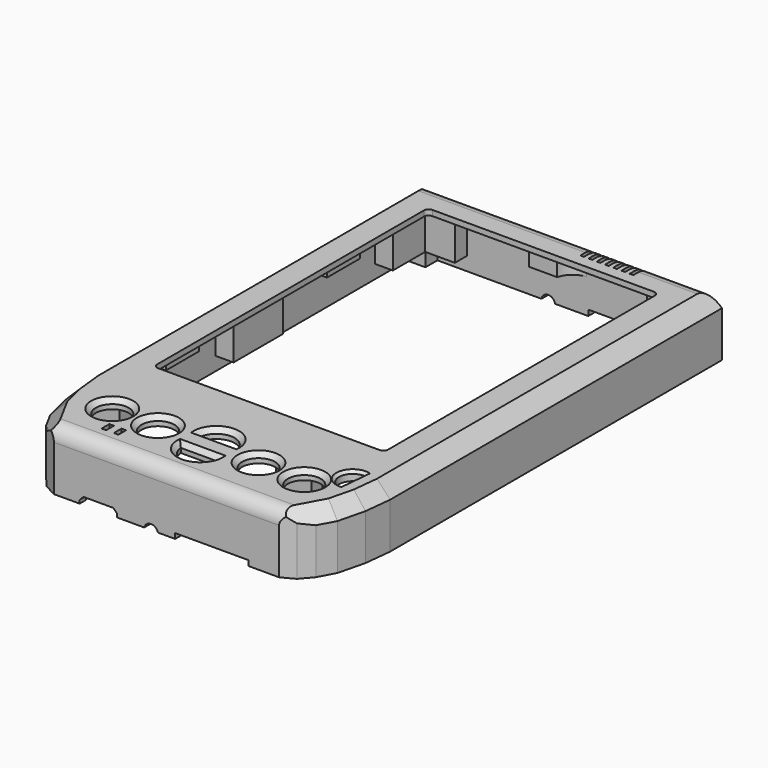
from build123d import *

# Parameters (mm, degrees)
PAD_DEPTH       = 13
SKETCH002_W     = 50.5
SKETCH002_H     = 75
POCKET_DEPTH    = 15
POCKET001_DEPTH = 11
SKETCH004_R     = 3.6
POCKET002_DEPTH = 5
SKETCH005_W     = 7.75
SKETCH005_H     = 3
SKETCH005_W_2   = 6.060126
SKETCH005_H_2   = 3.248485
SKETCH005_W_3   = 3.913111
SKETCH005_H_3   = 13.5
SKETCH005_W_4   = 3.95
SKETCH005_H_4   = 5.4
PAD001_DEPTH    = 8
CHAMFER_SIZE    = 1
CHAMFER001_SIZE = 0.6
POCKET008_DEPTH = 5
SKETCH034_R     = 1.56
SKETCH034_W     = 8.2
SKETCH034_H     = 3
SKETCH034_W_2   = 16
SKETCH034_H_2   = 2.61
POCKET013_DEPTH = 5
SKETCH035_W     = 12
SKETCH035_H     = 2.2
POCKET014_DEPTH = 5
SKETCH038_R     = 1.5
POCKET017_DEPTH = 5
SKETCH039_W     = 3.93
SKETCH039_H     = 3.28
PAD020_DEPTH    = 3
SKETCH040_R     = 0.9
POCKET018_DEPTH = 10
SKETCH045_R     = 0.6
POCKET023_DEPTH = 7
SKETCH047_W     = 3.7
SKETCH047_H     = 9
PAD022_DEPTH    = 2.2
SKETCH048_R     = 0.65
POCKET024_DEPTH = 3
SKETCH060_W     = 42.5
SKETCH060_H     = 2.92
POCKET029_DEPTH = 0.6
CHAMFER013_SIZE = 0.85
SKETCH091_R     = 3.3
POCKET041_DEPTH = 1.8
FILLET_R        = 0.6
FILLET013_R     = 1
CHAMFER019_SIZE = 3
FILLET014_R     = 3
SKETCH093_W     = 41.885073
SKETCH093_H     = 1.868717
SKETCH093_W_2   = 1.173572
SKETCH093_H_2   = 68.647411
PAD049_DEPTH    = 1.4
CHAMFER020_SIZE = 1
CHAMFER023_SIZE = 0.6
SKETCH123_W     = 54.886524
SKETCH123_H     = 84.845373
POCKET053_DEPTH = 0.8
PAD063_DEPTH    = 2
SKETCH127_R     = 4.673764
POCKET055_DEPTH = 6
SKETCH128_W     = 0.8
SKETCH128_H     = 4.500507
POCKET056_DEPTH = 3
SKETCH125_W     = 1
SKETCH125_H     = 2.10906
POCKET057_DEPTH = 5
SKETCH132_R     = 0.6
PAD068_DEPTH    = 3.5
POCKET058_DEPTH = 2


with BuildPart() as part:
    # Sketch001 → Pad (new body)
    with BuildSketch(Plane.XY):
        Polygon((-33.5, 60), (33.5, 60), (33.5, -28.56), (33.5, -30.72), (32.86, -36.67), (31.41, -42.53), (29.5, -46.05), (27.36, -48.55), (24.63, -50), (-24.63, -50), (-27.36, -48.55), (-29.5, -46.05), (-31.41, -42.53), (-32.86, -36.67), (-33.5, -30.72), (-33.5, -28.56), align=None)
    extrude(amount=PAD_DEPTH)

    # Sketch002 → Pocket (cut)
    with BuildSketch(Plane.XY.offset(13)):
        with Locations((0, 15.5)):
            Rectangle(SKETCH002_W, SKETCH002_H)
    extrude(amount=-POCKET_DEPTH, mode=Mode.SUBTRACT)

    # Sketch003 (on Face4 of Pocket) → Pocket001 (cut)
    with BuildSketch(Plane(origin=(0, 0, 0), x_dir=(1, 0, 0), z_dir=(0, 0, -1))):
        Polygon((31.465, 27.64), (31.465, -58.46), (-31.465, -58.46), (-31.465, 27.64), (-30.625, 35.62), (-28.345, 42.48), (-24.285, 47.7), (24.285, 47.7), (28.345, 42.48), (30.625, 35.62), align=None)
    extrude(amount=-POCKET001_DEPTH, mode=Mode.SUBTRACT)

    # Sketch004 (on Face5 of Pocket001) → Pocket002 (cut)
    with BuildSketch(Plane.XY.offset(13)):
        with Locations((-11, -38.582872)):
            Circle(SKETCH004_R)
        with Locations((-21, -38.582872)):
            Circle(SKETCH004_R)
        with Locations((21, -38.582872)):
            Circle(SKETCH004_R)
        with Locations((11, -38.582872)):
            Circle(SKETCH004_R)
        with BuildLine():
            Line((-4, -36.076862), (4, -36.076862))
            ThreePointArc((4, -36.076862), (0, -32.365628), (-4, -36.076862))
        make_face()
        with BuildLine():
            Line((-4, -41.076862), (4, -41.076862))
            ThreePointArc((-4, -41.076862), (0, -44.788096), (4, -41.076862))
        make_face()
        with BuildLine():
            Line((27.689413, -30.24629), (27.135416, -36.179923))
            ThreePointArc((27.689413, -30.24629), (24.317066, -32.924108), (27.135416, -36.179923))
        make_face()
    extrude(amount=-POCKET002_DEPTH, mode=Mode.SUBTRACT)

    # Sketch005 (on Face43 of Pocket002) → Pad001 (join)
    with BuildSketch(Plane(origin=(0, 0, 11), x_dir=(1, 0, 0), z_dir=(0, 0, -1))):
        Polygon((-30.773375, 33.990631), (-23.134689, 33.990631), (-23.134689, 30.446171), (-31.140054, 30.446171), align=None)
        with Locations((14.598705, 31.946171)):
            Rectangle(SKETCH005_W, SKETCH005_H)
        Polygon((-31.45, -46.28), (-27.5, -46.28), (-27.5, -55.11), (-21, -55.11), (-21, -58.46), (-31.45, -58.46), align=None)
        Polygon((27.5, -46.28), (31.388655, -46.28), (31.388655, -58.46), (21, -58.46), (21, -55.11), (27.5, -55.11), align=None)
        with Locations((-7.1951, 46.029024)):
            Rectangle(SKETCH005_W_2, SKETCH005_H_2)
        with Locations((29.456556, -9.45)):
            Rectangle(SKETCH005_W_3, SKETCH005_H_3)
        with Locations((-29.456556, -9.45)):
            Rectangle(SKETCH005_W_3, SKETCH005_H_3)
        Polygon((-24.271435, 47.655413), (-20.080922, 47.655413), (-20.080922, 44.099487), (-27.006367, 44.099487), align=None)
        Polygon((20.080922, 47.655413), (20.080922, 44.099487), (27.006367, 44.099487), (24.271435, 47.655413), align=None)
        with Locations((-29.475, 24.906171)):
            Rectangle(SKETCH005_W_4, SKETCH005_H_4)
        with Locations((29.475, 24.906171)):
            Rectangle(SKETCH005_W_4, SKETCH005_H_4)
    extrude(amount=PAD001_DEPTH)

    # Chamfer
    chamfer_edges = [part.edges().sort_by_distance(p)[0] for p in [
        (17.4, -38.582872, 13),
        (7.4, -38.582872, 13),
        (-14.6, -38.582872, 13),
        (-24.6, -38.582872, 13),
        (0, -32.365628, 13),
        (0, -36.076862, 13),
        (0, -41.076862, 13),
        (0, -44.788096, 13),
    ]]
    chamfer(chamfer_edges, length=CHAMFER_SIZE)

    # Chamfer001
    chamfer001_edges = [part.edges().sort_by_distance(p)[0] for p in [
        (27.412415, -33.213106, 13),
    ]]
    chamfer(chamfer001_edges, length=CHAMFER001_SIZE)

    # Sketch018 (on Face15 of Chamfer001) → Pocket008 (cut)
    with BuildSketch(Plane(origin=(0, 60, 0), x_dir=(-1, 0, 0), z_dir=(0, 1, 0))):
        with BuildLine():
            Line((-24.087924, 0), (-23.514256, 0))
            ThreePointArc((-23.514256, 0), (-23.80109, 0.015102), (-24.087924, 0))
        make_face()
    extrude(amount=-POCKET008_DEPTH, mode=Mode.SUBTRACT)

    # Sketch034 (on Face10 of Pocket008) → Pocket013 (cut)
    with BuildSketch(Plane.XZ.offset(50)):
        with Locations((-3.38, -0.4)):
            Circle(SKETCH034_R)
        with Locations((-14.9, 0.08)):
            Rectangle(SKETCH034_W, SKETCH034_H)
        with Locations((9.89, -0.175)):
            Rectangle(SKETCH034_W_2, SKETCH034_H_2)
    extrude(amount=-POCKET013_DEPTH, mode=Mode.SUBTRACT)

    # Sketch035 (on Face15 of Pocket013) → Pocket014 (cut)
    with BuildSketch(Plane(origin=(0, 60, 0), x_dir=(-1, 0, 0), z_dir=(0, 1, 0))):
        with Locations((-11.5, 0.15)):
            Rectangle(SKETCH035_W, SKETCH035_H)
    extrude(amount=-POCKET014_DEPTH, mode=Mode.SUBTRACT)

    # Sketch038 (on Face15 of Pocket014) → Pocket017 (cut)
    with BuildSketch(Plane(origin=(0, 60, 0), x_dir=(-1, 0, 0), z_dir=(0, 1, 0))):
        with Locations((3.26, -0.25)):
            Circle(SKETCH038_R)
    extrude(amount=-POCKET017_DEPTH, mode=Mode.SUBTRACT)

    # Sketch039 (on Face121 of Pocket017) → Pad020 (join)
    with BuildSketch(Plane(origin=(0, 0, 3), x_dir=(1, 0, 0), z_dir=(0, 0, -1))):
        Polygon((-27.02, 44.12), (-21.5, 44.12), (-21.5, 47.67), (-24.25, 47.67), align=None)
        Polygon((21.5, 47.67), (24.25, 47.67), (27.02, 44.12), (21.5, 44.12), align=None)
        with Locations((-29.465, -56.81)):
            Rectangle(SKETCH039_W, SKETCH039_H)
        with Locations((29.465, -56.81)):
            Rectangle(SKETCH039_W, SKETCH039_H)
    extrude(amount=PAD020_DEPTH)

    # Sketch040 (on Face152 of Pad020) → Pocket018 (cut)
    with BuildSketch(Plane(origin=(0, 0, 0), x_dir=(1, 0, 0), z_dir=(0, 0, -1))):
        with Locations((-29.5, -57)):
            Circle(SKETCH040_R)
        with Locations((29.5, -57)):
            Circle(SKETCH040_R)
        with Locations((-29.5, -13)):
            Circle(SKETCH040_R)
        with Locations((29.5, -13)):
            Circle(SKETCH040_R)
        with Locations((-24, 46.5)):
            Circle(SKETCH040_R)
        with Locations((24, 46.5)):
            Circle(SKETCH040_R)
    extrude(amount=-POCKET018_DEPTH, mode=Mode.SUBTRACT)

    # Sketch045 → Pocket023 (cut)
    with BuildSketch(Plane(origin=(0, 0, 3), x_dir=(1, 0, 0), z_dir=(0, 0, -1))):
        with Locations((-29, -50.7)):
            Circle(SKETCH045_R)
        with Locations((29, -50.7)):
            Circle(SKETCH045_R)
        with Locations((-29, -5.2)):
            Circle(SKETCH045_R)
        with Locations((29, -5.2)):
            Circle(SKETCH045_R)
        with Locations((15.75, 32.05)):
            Circle(SKETCH045_R)
        with Locations((29, 24.8)):
            Circle(SKETCH045_R)
        with Locations((-29, 24.8)):
            Circle(SKETCH045_R)
        with Locations((-27.25, 32.05)):
            Circle(SKETCH045_R)
        with Locations((-7.25, 45.8)):
            Circle(SKETCH045_R)
    extrude(amount=-POCKET023_DEPTH, mode=Mode.SUBTRACT)

    # Sketch047 (on Face33 of Pocket023) → Pad022 (join)
    with BuildSketch(Plane(origin=(0, 0, 11), x_dir=(1, 0, 0), z_dir=(0, 0, -1))):
        with Locations((-29.54, -33)):
            Rectangle(SKETCH047_W, SKETCH047_H)
        with Locations((29.54, -33)):
            Rectangle(SKETCH047_W, SKETCH047_H)
        with Locations((-29.57, 11)):
            Rectangle(SKETCH047_W, SKETCH047_H)
        with Locations((29.57, 11)):
            Rectangle(SKETCH047_W, SKETCH047_H)
    extrude(amount=PAD022_DEPTH)

    # Sketch048 (on Face153 of Pad022) → Pocket024 (cut)
    with BuildSketch(Plane(origin=(0, 0, 8.8), x_dir=(1, 0, 0), z_dir=(0, 0, -1))):
        with Locations((-29.64, 13)):
            Circle(SKETCH048_R)
        with Locations((-29.64, 9)):
            Circle(SKETCH048_R)
        with Locations((29.64, 13)):
            Circle(SKETCH048_R)
        with Locations((29.64, 9)):
            Circle(SKETCH048_R)
        with Locations((29.64, -31)):
            Circle(SKETCH048_R)
        with Locations((29.64, -35)):
            Circle(SKETCH048_R)
        with Locations((-29.64, -31)):
            Circle(SKETCH048_R)
        with Locations((-29.64, -35)):
            Circle(SKETCH048_R)
    extrude(amount=-POCKET024_DEPTH, mode=Mode.SUBTRACT)

    # Sketch060 (on Face65 of Pocket024) → Pocket029 (cut)
    with BuildSketch(Plane(origin=(0, -47.7, 0), x_dir=(-1, 0, 0), z_dir=(0, 1, 0))):
        with Locations((0, 1.46)):
            Rectangle(SKETCH060_W, SKETCH060_H)
    extrude(amount=-POCKET029_DEPTH, mode=Mode.SUBTRACT)

    # Chamfer013
    chamfer013_edges = [part.edges().sort_by_distance(p)[0] for p in [
        (-10.8, -49.15, 1.58),
        (-19, -49.15, 1.58),
    ]]
    chamfer(chamfer013_edges, length=CHAMFER013_SIZE)

    # Sketch091 (on Face28 of Chamfer013) → Pocket041 (cut)
    with BuildSketch(Plane(origin=(0, 61, 0), x_dir=(-1, 0, 0), z_dir=(0, 1, 0))):
        with Locations((-11.51, 0.32)):
            Circle(SKETCH091_R)
    extrude(amount=-POCKET041_DEPTH, mode=Mode.SUBTRACT)

    # Fillet
    fillet_edges = [part.edges().sort_by_distance(p)[0] for p in [
        (11.51, 59.2, 3.62),
    ]]
    fillet(fillet_edges, radius=FILLET_R)

    # Fillet013
    fillet013_edges = [part.edges().sort_by_distance(p)[0] for p in [
        (-25.25, 53, 12),
        (25.25, 53, 12),
        (25.25, -22, 12),
        (-25.25, -22, 12),
    ]]
    fillet(fillet013_edges, radius=FILLET013_R)

    # Chamfer019
    chamfer019_edges = [part.edges().sort_by_distance(p)[0] for p in [
        (33.5, 15.72, 13),
        (33.5, -29.64, 13),
        (33.18, -33.695, 13),
        (30.455, -44.29, 13),
        (32.135, -39.6, 13),
        (-33.5, 15.72, 13),
        (-33.5, -29.64, 13),
        (-33.18, -33.695, 13),
        (-30.455, -44.29, 13),
        (-32.135, -39.6, 13),
    ]]
    chamfer(chamfer019_edges, length=CHAMFER019_SIZE)

    # Fillet014
    fillet014_edges = [part.edges().sort_by_distance(p)[0] for p in [
        (0, -50, 13),
        (0, 60, 13),
    ]]
    fillet(fillet014_edges, radius=FILLET014_R)

    # Sketch093 (on Face48 of Fillet014) → Pad049 (join)
    with BuildSketch(Plane(origin=(0, 0, 11), x_dir=(1, 0, 0), z_dir=(0, 0, -1))):
        with Locations((0.037367, -57.695791)):
            Rectangle(SKETCH093_W, SKETCH093_H)
        with Locations((-30.917265, -12.026485)):
            Rectangle(SKETCH093_W_2, SKETCH093_H_2)
        with Locations((30.917265, -12.026485)):
            Rectangle(SKETCH093_W_2, SKETCH093_H_2)
    extrude(amount=PAD049_DEPTH)

    # Chamfer020
    chamfer020_edges = [part.edges().sort_by_distance(p)[0] for p in [
        (30.330479, -18.853086, 9.6),
        (30.330479, -1.9, 9.6),
        (30.330479, 22.35, 9.6),
        (30.330479, 41.89, 9.6),
        (0.037368, 56.761433, 9.6),
        (-30.330479, 41.89, 9.6),
        (-30.330479, 22.35, 9.6),
        (-30.330479, -1.9, 9.6),
        (-30.330479, -18.853086, 9.6),
    ]]
    chamfer(chamfer020_edges, length=CHAMFER020_SIZE)

    # Chamfer023
    chamfer023_edges = [part.edges().sort_by_distance(p)[0] for p in [
        (14.6, -38.582872, 11.5),
        (24.317066, -32.924108, 13),
    ]]
    chamfer(chamfer023_edges, length=CHAMFER023_SIZE)

    # Sketch123 (on Face4 of Chamfer023) → Pocket053 (cut)
    with BuildSketch(Plane(origin=(0, 0, 11), x_dir=(1, 0, 0), z_dir=(0, 0, -1))):
        with Locations((0, -12.674904)):
            Rectangle(SKETCH123_W, SKETCH123_H)
    extrude(amount=-POCKET053_DEPTH, mode=Mode.SUBTRACT)

    # Sketch124 (on Face4 of Pocket053) → Pad063 (join)
    with BuildSketch(Plane(origin=(0, 0, 11), x_dir=(1, 0, 0), z_dir=(0, 0, -1))):
        with BuildLine():
            ThreePointArc((-18.043154, 46.61502), (-19.900739, 47.001733), (-18.646501, 45.577987))
            ThreePointArc((-18.043154, 46.61502), (-18.396323, 46.126463), (-18.646501, 45.577987))
        make_face()
        with BuildLine():
            ThreePointArc((-16.881931, 41.756502), (-16.226377, 40.110835), (-15.246068, 41.58629))
            ThreePointArc((-16.881931, 41.756502), (-16.075689, 41.55905), (-15.246068, 41.58629))
        make_face()
        with BuildLine():
            ThreePointArc((-12.712149, 44.706067), (-11.390243, 45.929329), (-13.170269, 46.203756))
            ThreePointArc((-12.712149, 44.706067), (-12.843436, 45.484818), (-13.170269, 46.203756))
        make_face()
    extrude(amount=PAD063_DEPTH)

    # Sketch127 → Pocket055 (cut)
    with BuildSketch(Plane(origin=(0, 0, 3), x_dir=(1, 0, 0), z_dir=(0, 0, -1))):
        with Locations((18.736132, -53.720879)):
            Circle(SKETCH127_R)
    extrude(amount=-POCKET055_DEPTH, mode=Mode.SUBTRACT)

    # Sketch128 (on Face6 of Pocket055) → Pocket056 (cut)
    with BuildSketch(Plane.XY.offset(13)):
        with Locations((17.236423, 57.85691)):
            Rectangle(SKETCH128_W, SKETCH128_H)
        with Locations((15.436423, 57.85691)):
            Rectangle(SKETCH128_W, SKETCH128_H)
        with Locations((13.636423, 57.85691)):
            Rectangle(SKETCH128_W, SKETCH128_H)
        with Locations((11.836423, 57.85691)):
            Rectangle(SKETCH128_W, SKETCH128_H)
        with Locations((10.036423, 57.85691)):
            Rectangle(SKETCH128_W, SKETCH128_H)
        with Locations((8.236423, 57.85691)):
            Rectangle(SKETCH128_W, SKETCH128_H)
        with Locations((6.436423, 57.85691)):
            Rectangle(SKETCH128_W, SKETCH128_H)
    extrude(amount=-POCKET056_DEPTH, mode=Mode.SUBTRACT)

    # Sketch125 (on Face4 of Pad063) → Pocket057 (cut)
    with BuildSketch(Plane(origin=(0, 0, 11), x_dir=(1, 0, 0), z_dir=(0, 0, -1))):
        with Locations((-17.332129, 44.396361)):
            Rectangle(SKETCH125_W, SKETCH125_H)
        with Locations((-14.667871, 44.396361)):
            Rectangle(SKETCH125_W, SKETCH125_H)
    extrude(amount=-POCKET057_DEPTH, mode=Mode.SUBTRACT)

    # Sketch132 (on Face4 of Pocket057) → Pad068 (join)
    with BuildSketch(Plane(origin=(0, 0, 11), x_dir=(1, 0, 0), z_dir=(0, 0, -1))):
        with BuildLine():
            Line((1.356046, -55.129693), (-4.823954, -55.129693))
            Line((-4.823954, -55.129693), (-4.823954, -58.409693))
            Line((-4.823954, -58.409693), (5.176046, -58.409693))
            ThreePointArc((1.356046, -55.129693), (2.755717, -57.364039), (5.176046, -58.409693))
        make_face()
        with Locations((-2.823954, -56.809693)):
            Circle(SKETCH132_R, mode=Mode.SUBTRACT)
    extrude(amount=PAD068_DEPTH)

    # Sketch133 (on Face242 of Pad068) → Pocket058 (cut)
    with BuildSketch(Plane(origin=(0, 0, 3), x_dir=(1, 0, 0), z_dir=(0, 0, -1))):
        Polygon((-30.686655, 34.303913), (-31.226395, 29.616716), (-29.226395, 29.616716), (-28.686655, 34.303913), align=None)
    extrude(amount=-POCKET058_DEPTH, mode=Mode.SUBTRACT)


solid = part.part
